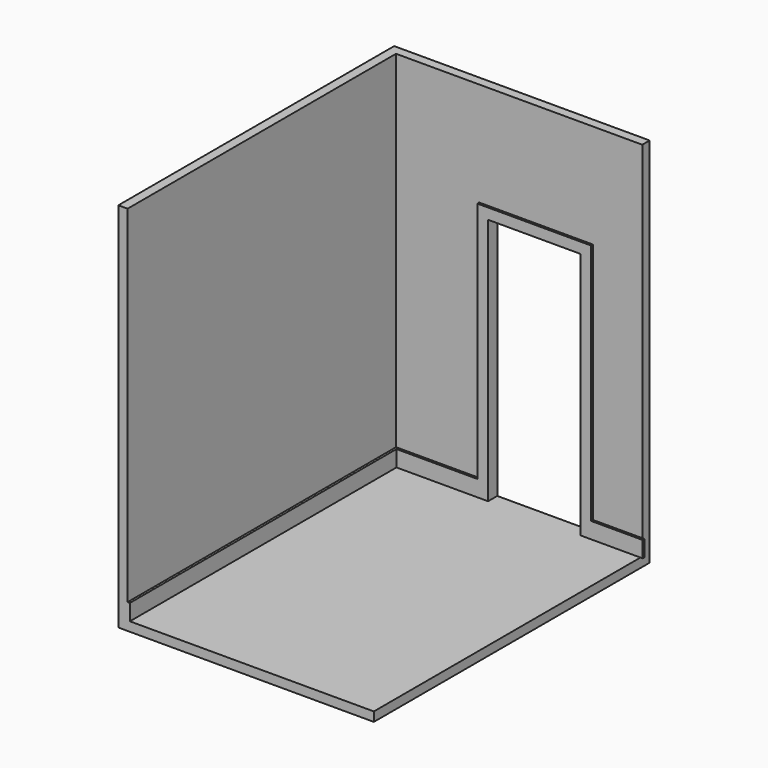
from build123d import *

# Parameters (mm, degrees)
F0_W      = 2768.6
F0_H      = 2990.85
F1_DEPTH  = 76.2
F2_W      = 2108.2
F2_H      = 2990.85
F3_DEPTH  = 76.2
F4_W      = 2108.2
F4_H      = 2844.8
F5_DEPTH  = 76.2
F6_W      = 762
F6_H      = 2044.7
F7_DEPTH  = 76.2
F8_W      = 19.05
F8_H      = 133.35
F9_DEPTH  = 2768.6
F10_W     = 19.05
F10_H     = 133.35
F11_DEPTH = 2032
F12_W     = 939.8
F12_H     = 19.05
F13_DEPTH = 2000.25
F14_DEPTH = 19.05


with BuildPart() as f1:
    # F0 (on Right) → F1 (new body)
    with BuildSketch(Plane.YZ):
        with Locations((-1384.3, 1495.425)):
            Rectangle(F0_W, F0_H)
    extrude(amount=-F1_DEPTH)

    # F2 (on face) → F3 (join)
    with BuildSketch(Plane(origin=(0, 0, 0), x_dir=(-1, 0, 0), z_dir=(0, 1, 0))):
        with Locations((-977.9, 1495.425)):
            Rectangle(F2_W, F2_H)
    extrude(amount=F3_DEPTH)

    # F4 (on face) → F5 (join)
    with BuildSketch(Plane(origin=(0, 0, 0), x_dir=(1, 0, 0), z_dir=(0, 0, -1))):
        with Locations((977.9, 1346.2)):
            Rectangle(F4_W, F4_H)
    extrude(amount=F5_DEPTH)

    # F6 (on face) → F7 (cut)
    with BuildSketch(Plane.XZ):
        with Locations((1155.7, 1022.35)):
            Rectangle(F6_W, F6_H)
    extrude(amount=-F7_DEPTH, mode=Mode.SUBTRACT)

    # F8 (on face) → F9 (join)
    with BuildSketch(Plane.XZ.offset(2768.6)):
        with Locations((9.525, 66.675)):
            Rectangle(F8_W, F8_H)
    extrude(amount=-F9_DEPTH)

    # F10 (on face) → F11 (join)
    with BuildSketch(Plane.YZ.offset(19.05)):
        with Locations((-9.525, 66.675)):
            Rectangle(F10_W, F10_H)
    extrude(amount=F11_DEPTH)

    # F12 (on face) → F13 (join)
    with BuildSketch(Plane.XY.offset(133.35)):
        with Locations((1155.7, -9.525)):
            Rectangle(F12_W, F12_H)
    extrude(amount=F13_DEPTH)

    # F6 (on face) → F14 (cut)
    with BuildSketch(Plane.XZ):
        with Locations((1155.7, 1022.35)):
            Rectangle(F6_W, F6_H)
    extrude(amount=F14_DEPTH, mode=Mode.SUBTRACT)


solid = f1.part
